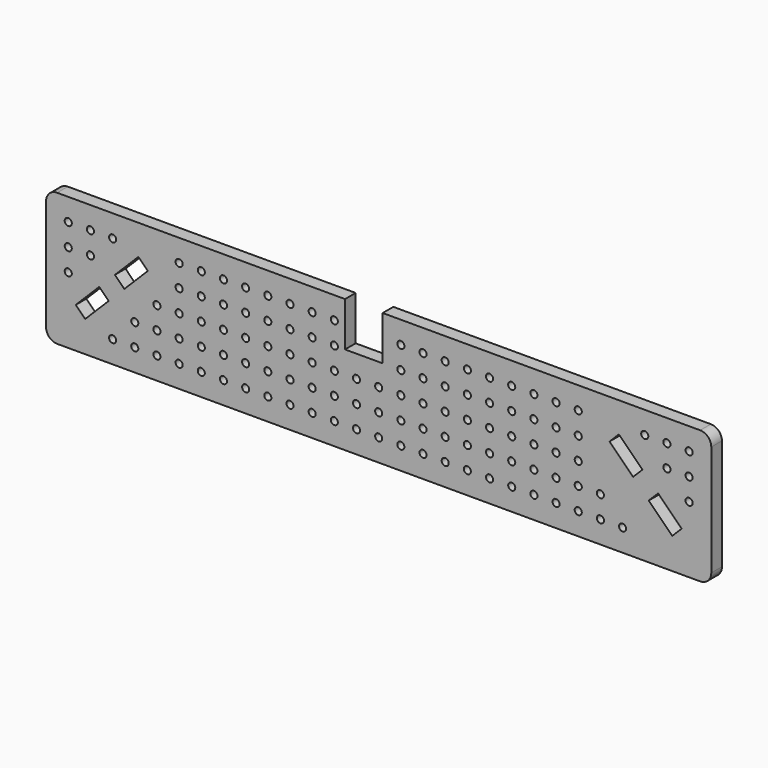
from build123d import *

# Parameters (mm, degrees)
F0_R     = 1.6
F2_DEPTH = 6


with BuildPart() as f2:
    # F0 (on Front) → F2 (new body)
    with BuildSketch(Plane.XZ):
        with BuildLine():
            Line((-150, 25), (-150, -25))
            ThreePointArc((-150, -25), (-148.5355339059, -28.5355339059), (-145, -30))
            Line((-145, -30), (145, -30))
            ThreePointArc((145, -30), (148.5355339059, -28.5355339059), (150, -25))
            Line((150, -25), (150, 25))
            ThreePointArc((150, 25), (148.5355339059, 28.5355339059), (145, 30))
            Line((145, 30), (1.815618, 30))
            Line((1.815618, 30), (1.815618, 10))
            Line((1.815618, 10), (-15.184382, 10))
            Line((-15.184382, 10), (-15.184382, 30))
            Line((-15.184382, 30), (-145, 30))
            ThreePointArc((-145, 30), (-148.5355339059, 28.5355339059), (-150, 25))
        make_face()
        with Locations((-120, -20)):
            Circle(F0_R, mode=Mode.SUBTRACT)
        with Locations((-110, -20)):
            Circle(F0_R, mode=Mode.SUBTRACT)
        with Locations((-100, -20)):
            Circle(F0_R, mode=Mode.SUBTRACT)
        with Locations((-90, -20)):
            Circle(F0_R, mode=Mode.SUBTRACT)
        with Locations((-80, -20)):
            Circle(F0_R, mode=Mode.SUBTRACT)
        with Locations((-70, -20)):
            Circle(F0_R, mode=Mode.SUBTRACT)
        with Locations((-60, -20)):
            Circle(F0_R, mode=Mode.SUBTRACT)
        with Locations((-50, -20)):
            Circle(F0_R, mode=Mode.SUBTRACT)
        with Locations((-40, -20)):
            Circle(F0_R, mode=Mode.SUBTRACT)
        with Locations((-30, -20)):
            Circle(F0_R, mode=Mode.SUBTRACT)
        with Locations((-20, -20)):
            Circle(F0_R, mode=Mode.SUBTRACT)
        with Locations((-10, -20)):
            Circle(F0_R, mode=Mode.SUBTRACT)
        Polygon((-136.637455, -11.801526), (-126.030853, -1.194924), (-121.788212, -5.437565), (-132.394814, -16.044166), align=None, mode=Mode.SUBTRACT)
        with Locations((-110, -10)):
            Circle(F0_R, mode=Mode.SUBTRACT)
        with Locations((-100, -10)):
            Circle(F0_R, mode=Mode.SUBTRACT)
        with Locations((-90, -10)):
            Circle(F0_R, mode=Mode.SUBTRACT)
        with Locations((-80, -10)):
            Circle(F0_R, mode=Mode.SUBTRACT)
        with Locations((-140, 0)):
            Circle(F0_R, mode=Mode.SUBTRACT)
        with Locations((-100, 0)):
            Circle(F0_R, mode=Mode.SUBTRACT)
        with Locations((-90, 0)):
            Circle(F0_R, mode=Mode.SUBTRACT)
        with Locations((-80, 0)):
            Circle(F0_R, mode=Mode.SUBTRACT)
        with Locations((-70, -10)):
            Circle(F0_R, mode=Mode.SUBTRACT)
        with Locations((-60, -10)):
            Circle(F0_R, mode=Mode.SUBTRACT)
        with Locations((-50, -10)):
            Circle(F0_R, mode=Mode.SUBTRACT)
        with Locations((-40, -10)):
            Circle(F0_R, mode=Mode.SUBTRACT)
        with Locations((-30, -10)):
            Circle(F0_R, mode=Mode.SUBTRACT)
        with Locations((-20, -10)):
            Circle(F0_R, mode=Mode.SUBTRACT)
        with Locations((-10, -10)):
            Circle(F0_R, mode=Mode.SUBTRACT)
        with Locations((-70, 0)):
            Circle(F0_R, mode=Mode.SUBTRACT)
        with Locations((-60, 0)):
            Circle(F0_R, mode=Mode.SUBTRACT)
        with Locations((-50, 0)):
            Circle(F0_R, mode=Mode.SUBTRACT)
        with Locations((-40, 0)):
            Circle(F0_R, mode=Mode.SUBTRACT)
        with Locations((-30, 0)):
            Circle(F0_R, mode=Mode.SUBTRACT)
        with Locations((-20, 0)):
            Circle(F0_R, mode=Mode.SUBTRACT)
        with Locations((-10, 0)):
            Circle(F0_R, mode=Mode.SUBTRACT)
        with Locations((0, -20)):
            Circle(F0_R, mode=Mode.SUBTRACT)
        with Locations((10, -20)):
            Circle(F0_R, mode=Mode.SUBTRACT)
        with Locations((20, -20)):
            Circle(F0_R, mode=Mode.SUBTRACT)
        with Locations((30, -20)):
            Circle(F0_R, mode=Mode.SUBTRACT)
        with Locations((40, -20)):
            Circle(F0_R, mode=Mode.SUBTRACT)
        with Locations((50, -20)):
            Circle(F0_R, mode=Mode.SUBTRACT)
        with Locations((60, -20)):
            Circle(F0_R, mode=Mode.SUBTRACT)
        with Locations((70, -20)):
            Circle(F0_R, mode=Mode.SUBTRACT)
        with Locations((80, -20)):
            Circle(F0_R, mode=Mode.SUBTRACT)
        with Locations((90, -20)):
            Circle(F0_R, mode=Mode.SUBTRACT)
        with Locations((100, -20)):
            Circle(F0_R, mode=Mode.SUBTRACT)
        with Locations((110, -20)):
            Circle(F0_R, mode=Mode.SUBTRACT)
        with Locations((0, -10)):
            Circle(F0_R, mode=Mode.SUBTRACT)
        with Locations((10, -10)):
            Circle(F0_R, mode=Mode.SUBTRACT)
        with Locations((20, -10)):
            Circle(F0_R, mode=Mode.SUBTRACT)
        with Locations((30, -10)):
            Circle(F0_R, mode=Mode.SUBTRACT)
        with Locations((40, -10)):
            Circle(F0_R, mode=Mode.SUBTRACT)
        with Locations((50, -10)):
            Circle(F0_R, mode=Mode.SUBTRACT)
        with Locations((60, -10)):
            Circle(F0_R, mode=Mode.SUBTRACT)
        with Locations((70, -10)):
            Circle(F0_R, mode=Mode.SUBTRACT)
        Circle(F0_R, mode=Mode.SUBTRACT)
        with Locations((10, 0)):
            Circle(F0_R, mode=Mode.SUBTRACT)
        with Locations((20, 0)):
            Circle(F0_R, mode=Mode.SUBTRACT)
        with Locations((30, 0)):
            Circle(F0_R, mode=Mode.SUBTRACT)
        with Locations((40, 0)):
            Circle(F0_R, mode=Mode.SUBTRACT)
        with Locations((50, 0)):
            Circle(F0_R, mode=Mode.SUBTRACT)
        with Locations((60, 0)):
            Circle(F0_R, mode=Mode.SUBTRACT)
        with Locations((70, 0)):
            Circle(F0_R, mode=Mode.SUBTRACT)
        with Locations((80, -10)):
            Circle(F0_R, mode=Mode.SUBTRACT)
        with Locations((90, -10)):
            Circle(F0_R, mode=Mode.SUBTRACT)
        with Locations((100, -10)):
            Circle(F0_R, mode=Mode.SUBTRACT)
        Polygon((121.788212, -5.437565), (126.030853, -1.194924), (136.637455, -11.801526), (132.394814, -16.044166), align=None, mode=Mode.SUBTRACT)
        with Locations((80, 0)):
            Circle(F0_R, mode=Mode.SUBTRACT)
        with Locations((90, 0)):
            Circle(F0_R, mode=Mode.SUBTRACT)
        with Locations((140, 0)):
            Circle(F0_R, mode=Mode.SUBTRACT)
        with Locations((-140, 10)):
            Circle(F0_R, mode=Mode.SUBTRACT)
        with Locations((-130, 10)):
            Circle(F0_R, mode=Mode.SUBTRACT)
        Polygon((-118.959785, 5.876144), (-108.353183, 16.482746), (-104.110543, 12.240105), (-114.717144, 1.633503), align=None, mode=Mode.SUBTRACT)
        with Locations((-90, 10)):
            Circle(F0_R, mode=Mode.SUBTRACT)
        with Locations((-80, 10)):
            Circle(F0_R, mode=Mode.SUBTRACT)
        with Locations((-70, 10)):
            Circle(F0_R, mode=Mode.SUBTRACT)
        with Locations((-60, 10)):
            Circle(F0_R, mode=Mode.SUBTRACT)
        with Locations((-50, 10)):
            Circle(F0_R, mode=Mode.SUBTRACT)
        with Locations((-40, 10)):
            Circle(F0_R, mode=Mode.SUBTRACT)
        with Locations((-30, 10)):
            Circle(F0_R, mode=Mode.SUBTRACT)
        with Locations((-20, 10)):
            Circle(F0_R, mode=Mode.SUBTRACT)
        with Locations((-140, 20)):
            Circle(F0_R, mode=Mode.SUBTRACT)
        with Locations((-130, 20)):
            Circle(F0_R, mode=Mode.SUBTRACT)
        with Locations((-120, 20)):
            Circle(F0_R, mode=Mode.SUBTRACT)
        with Locations((-90, 20)):
            Circle(F0_R, mode=Mode.SUBTRACT)
        with Locations((-80, 20)):
            Circle(F0_R, mode=Mode.SUBTRACT)
        with Locations((-70, 20)):
            Circle(F0_R, mode=Mode.SUBTRACT)
        with Locations((-60, 20)):
            Circle(F0_R, mode=Mode.SUBTRACT)
        with Locations((-50, 20)):
            Circle(F0_R, mode=Mode.SUBTRACT)
        with Locations((-40, 20)):
            Circle(F0_R, mode=Mode.SUBTRACT)
        with Locations((-30, 20)):
            Circle(F0_R, mode=Mode.SUBTRACT)
        with Locations((-20, 20)):
            Circle(F0_R, mode=Mode.SUBTRACT)
        with Locations((10, 10)):
            Circle(F0_R, mode=Mode.SUBTRACT)
        with Locations((20, 10)):
            Circle(F0_R, mode=Mode.SUBTRACT)
        with Locations((30, 10)):
            Circle(F0_R, mode=Mode.SUBTRACT)
        with Locations((40, 10)):
            Circle(F0_R, mode=Mode.SUBTRACT)
        with Locations((50, 10)):
            Circle(F0_R, mode=Mode.SUBTRACT)
        with Locations((60, 10)):
            Circle(F0_R, mode=Mode.SUBTRACT)
        with Locations((70, 10)):
            Circle(F0_R, mode=Mode.SUBTRACT)
        with Locations((80, 10)):
            Circle(F0_R, mode=Mode.SUBTRACT)
        with Locations((90, 10)):
            Circle(F0_R, mode=Mode.SUBTRACT)
        Polygon((104.110543, 12.240105), (108.353184, 16.482746), (118.959785, 5.876144), (114.717145, 1.633503), align=None, mode=Mode.SUBTRACT)
        with Locations((130, 10)):
            Circle(F0_R, mode=Mode.SUBTRACT)
        with Locations((140, 10)):
            Circle(F0_R, mode=Mode.SUBTRACT)
        with Locations((10, 20)):
            Circle(F0_R, mode=Mode.SUBTRACT)
        with Locations((20, 20)):
            Circle(F0_R, mode=Mode.SUBTRACT)
        with Locations((30, 20)):
            Circle(F0_R, mode=Mode.SUBTRACT)
        with Locations((40, 20)):
            Circle(F0_R, mode=Mode.SUBTRACT)
        with Locations((50, 20)):
            Circle(F0_R, mode=Mode.SUBTRACT)
        with Locations((60, 20)):
            Circle(F0_R, mode=Mode.SUBTRACT)
        with Locations((70, 20)):
            Circle(F0_R, mode=Mode.SUBTRACT)
        with Locations((80, 20)):
            Circle(F0_R, mode=Mode.SUBTRACT)
        with Locations((90, 20)):
            Circle(F0_R, mode=Mode.SUBTRACT)
        with Locations((120, 20)):
            Circle(F0_R, mode=Mode.SUBTRACT)
        with Locations((130, 20)):
            Circle(F0_R, mode=Mode.SUBTRACT)
        with Locations((140, 20)):
            Circle(F0_R, mode=Mode.SUBTRACT)
    extrude(amount=F2_DEPTH)


solid = f2.part
